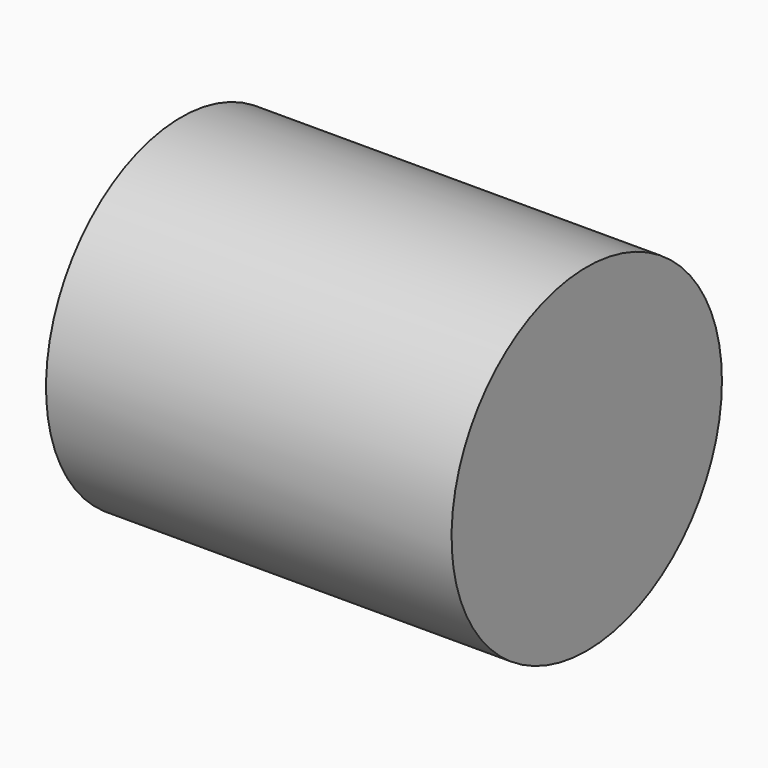
from build123d import *

# Parameters (mm, degrees)
F1_DEPTH = 15.24


with BuildPart() as f1:
    # F0 (on Right) → F1 (new body)
    with BuildSketch(Plane.YZ):
        with BuildLine():
            ThreePointArc((6.35, 57.15), (-4.490128, 61.640128), (0, 50.8))
            ThreePointArc((0, 50.8), (4.490128, 52.659872), (6.35, 57.15))
        make_face()
    extrude(amount=F1_DEPTH)


solid = f1.part
